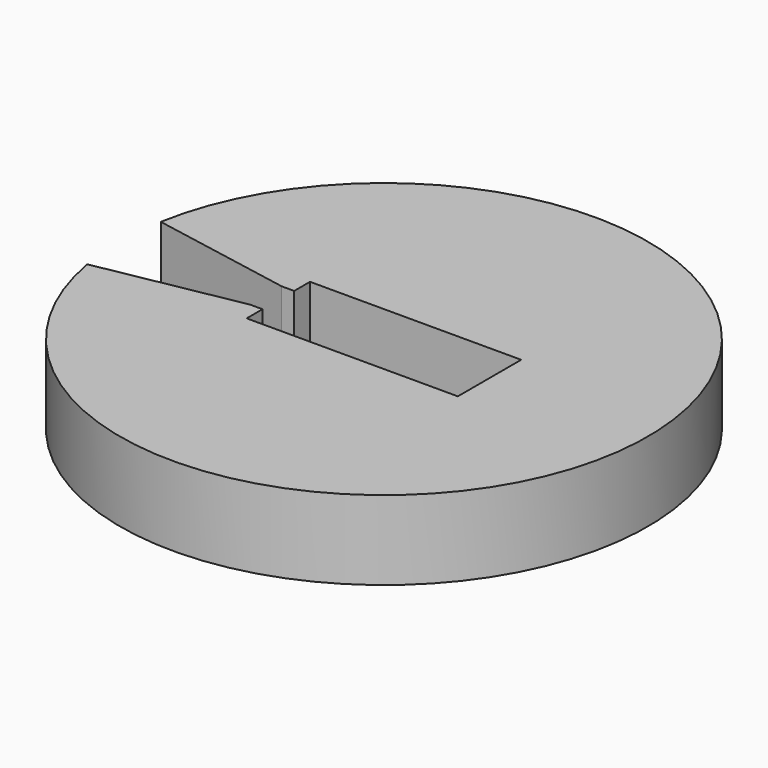
from build123d import *

# Parameters (mm, degrees)
PAD_DEPTH        = 3
CHAMFER_SIZE2    = 1
CHAMFER_SIZE     = 5.5
CHAMFER001_SIZE2 = 5.5
CHAMFER001_SIZE  = 1


with BuildPart() as part:
    # Sketch → Pad (new body)
    with BuildSketch(Plane.XY):
        with BuildLine():
            Line((-9.971835, 0.75), (-4, 0.75))
            Line((-4, 0.75), (-4, 1.5))
            Line((-4, 1.5), (4, 1.5))
            Line((4, 1.5), (4, -1.5))
            Line((4, -1.5), (-4, -1.5))
            Line((-4, -1.5), (-4, -0.75))
            Line((-4, -0.75), (-9.971835, -0.75))
            ThreePointArc((-9.971835, -0.75), (10, 0), (-9.971835, 0.75))
        make_face()
    extrude(amount=PAD_DEPTH)

    # Chamfer
    chamfer_edges = [part.edges().sort_by_distance(p)[0] for p in [
        (-9.971835, 0.75, 1.5),
    ]]
    chamfer_side = part.faces().sort_by_distance((-6.985918, 0.75, 1.5))[0]
    chamfer(chamfer_edges, length=CHAMFER_SIZE, length2=CHAMFER_SIZE2, reference=chamfer_side)

    # Chamfer001
    chamfer001_edges = [part.edges().sort_by_distance(p)[0] for p in [
        (-9.971835, -0.75, 1.5),
    ]]
    chamfer001_side = part.faces().sort_by_distance((9.987492, -0.5, 1.5))[0]
    chamfer(chamfer001_edges, length=CHAMFER001_SIZE, length2=CHAMFER001_SIZE2, reference=chamfer001_side)


solid = part.part
